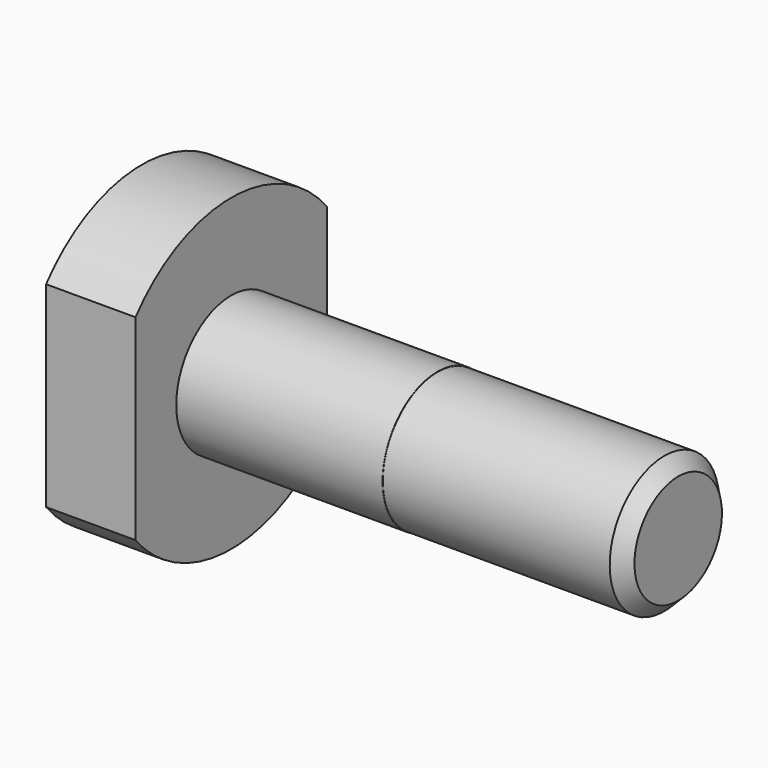
from build123d import *

# Parameters (mm, degrees)
F2_W     = 2.55
F2_H     = 14.264992
F3_DEPTH = 6.5
F4_SIZE  = 1


with BuildPart() as f1:
    # F0 (on Front) → F1 (revolve)
    with BuildSketch(Plane.XZ):
        Polygon((0, 11.25), (0, 0), (39, 0), (39, 4.975), (21.5, 4.975), (21.5, 4.995), (6.5, 4.995), (6.5, 11.25), align=None)
        Polygon((0, 11.25), (0, 0), (39, 0), (39, 4.975), (21.5, 4.975), (21.5, 4.995), (6.5, 4.995), (6.5, 11.25), align=None)
        Polygon((0, 11.25), (0, 0), (39, 0), (39, 4.975), (21.5, 4.975), (21.5, 4.995), (6.5, 4.995), (6.5, 11.25), align=None)
        Polygon((0, 11.25), (0, 0), (39, 0), (39, 4.975), (21.5, 4.975), (21.5, 4.995), (6.5, 4.995), (6.5, 11.25), align=None)
    revolve(axis=Axis((19.5, 0, 0), (1, 0, 0)))

    # F2 (on face) → F3 (cut, through all)
    with BuildSketch(Plane(origin=(0, 0, 0), x_dir=(0, -1, 0), z_dir=(-1, 0, 0))):
        with Locations((-9.975, 0)):
            Rectangle(F2_W, F2_H)
        with Locations((9.975, 0)):
            Rectangle(F2_W, F2_H)
    extrude(amount=-F3_DEPTH, mode=Mode.SUBTRACT)

    # F4
    f4_edges = [f1.edges().sort_by_distance(p)[0] for p in [
        (39, 0, -4.975),
    ]]
    chamfer(f4_edges, length=F4_SIZE)


solid = f1.part
